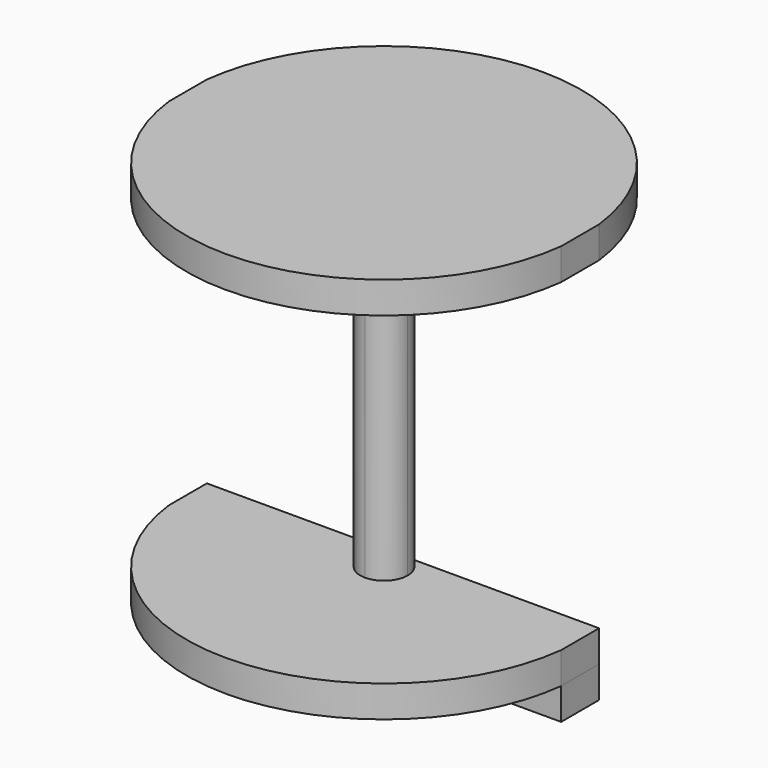
from build123d import *

# Parameters (mm, degrees)
F1_DEPTH = 2
F2_START = 2
F2_DEPTH = 20.5
F3_START = 22.5
F3_DEPTH = 2
F4_DEPTH = 2


with BuildPart() as f1:
    # F0 (on Top) → F1 (new body)
    with BuildSketch(Plane.XY):
        with BuildLine():
            Line((12.409673646, 0), (1.5, 0))
            ThreePointArc((1.5, 0), (1.0606601732, -1.0606601704), (3.9e-09, -1.5))
            Line((3.9e-09, -1.5), (12.409673646, -1.5))
            Line((12.409673646, -1.5), (12.409673646, 0))
        make_face()
        with BuildLine():
            ThreePointArc((3.9e-09, -1.5), (1.0606601732, -1.0606601704), (1.5, 0))
            Line((1.5, 0), (-1.5, 0))
            ThreePointArc((-1.5, 0), (-1.0606601704, -1.0606601732), (3.9e-09, -1.5))
        make_face()
        with BuildLine():
            Line((-12.409673646, -1.5), (3.9e-09, -1.5))
            ThreePointArc((3.9e-09, -1.5), (-1.0606601704, -1.0606601732), (-1.5, 0))
            Line((-1.5, 0), (-12.409673646, 0))
            Line((-12.409673646, 0), (-12.409673646, -1.5))
        make_face()
        with BuildLine():
            Line((12.409673646, -1.5), (3.9e-09, -1.5))
            Line((3.9e-09, -1.5), (-12.409673646, -1.5))
            ThreePointArc((-12.409673646, -1.5), (0, -12.5), (12.409673646, -1.5))
        make_face()
        with BuildLine():
            ThreePointArc((-1.5, 0), (-1.0606601718, 1.0606601718), (0, 1.5))
            Line((0, 1.5), (-12.409673646, 1.5))
            Line((-12.409673646, 1.5), (-12.409673646, 0))
            Line((-12.409673646, 0), (-1.5, 0))
        make_face()
        with BuildLine():
            ThreePointArc((0, 1.5), (1.0606601718, 1.0606601718), (1.5, 0))
            Line((1.5, 0), (12.409673646, 0))
            Line((12.409673646, 0), (12.409673646, 1.5))
            Line((12.409673646, 1.5), (0, 1.5))
        make_face()
        with BuildLine():
            Line((-1.5, 0), (1.5, 0))
            ThreePointArc((1.5, 0), (1.0606601718, 1.0606601718), (0, 1.5))
            ThreePointArc((0, 1.5), (-1.0606601718, 1.0606601718), (-1.5, 0))
        make_face()
    extrude(amount=F1_DEPTH)


with BuildPart() as f2:
    # F0 (on Top) → F2 (new body)
    with BuildSketch(Plane.XY.offset(F2_START)):
        with BuildLine():
            ThreePointArc((3.9e-09, -1.5), (1.0606601732, -1.0606601704), (1.5, 0))
            Line((1.5, 0), (-1.5, 0))
            ThreePointArc((-1.5, 0), (-1.0606601704, -1.0606601732), (3.9e-09, -1.5))
        make_face()
        with BuildLine():
            Line((-1.5, 0), (1.5, 0))
            ThreePointArc((1.5, 0), (1.0606601718, 1.0606601718), (0, 1.5))
            ThreePointArc((0, 1.5), (-1.0606601718, 1.0606601718), (-1.5, 0))
        make_face()
    extrude(amount=F2_DEPTH)


with BuildPart() as f3:
    # F0 (on Top) → F3 (new body)
    with BuildSketch(Plane.XY.offset(F3_START)):
        with BuildLine():
            ThreePointArc((0, 1.5), (1.0606601718, 1.0606601718), (1.5, 0))
            Line((1.5, 0), (12.409673646, 0))
            Line((12.409673646, 0), (12.409673646, 1.5))
            Line((12.409673646, 1.5), (0, 1.5))
        make_face()
        with BuildLine():
            Line((-1.5, 0), (1.5, 0))
            ThreePointArc((1.5, 0), (1.0606601718, 1.0606601718), (0, 1.5))
            ThreePointArc((0, 1.5), (-1.0606601718, 1.0606601718), (-1.5, 0))
        make_face()
        with BuildLine():
            ThreePointArc((3.9e-09, -1.5), (1.0606601732, -1.0606601704), (1.5, 0))
            Line((1.5, 0), (-1.5, 0))
            ThreePointArc((-1.5, 0), (-1.0606601704, -1.0606601732), (3.9e-09, -1.5))
        make_face()
        with BuildLine():
            Line((12.409673646, 0), (1.5, 0))
            ThreePointArc((1.5, 0), (1.0606601732, -1.0606601704), (3.9e-09, -1.5))
            Line((3.9e-09, -1.5), (12.409673646, -1.5))
            Line((12.409673646, -1.5), (12.409673646, 0))
        make_face()
        with BuildLine():
            Line((-12.409673646, -1.5), (3.9e-09, -1.5))
            ThreePointArc((3.9e-09, -1.5), (-1.0606601704, -1.0606601732), (-1.5, 0))
            Line((-1.5, 0), (-12.409673646, 0))
            Line((-12.409673646, 0), (-12.409673646, -1.5))
        make_face()
        with BuildLine():
            ThreePointArc((-1.5, 0), (-1.0606601718, 1.0606601718), (0, 1.5))
            Line((0, 1.5), (-12.409673646, 1.5))
            Line((-12.409673646, 1.5), (-12.409673646, 0))
            Line((-12.409673646, 0), (-1.5, 0))
        make_face()
        with BuildLine():
            Line((-12.409673646, 1.5), (0, 1.5))
            Line((0, 1.5), (12.409673646, 1.5))
            ThreePointArc((12.409673646, 1.5), (0, 12.5), (-12.409673646, 1.5))
        make_face()
        with BuildLine():
            Line((12.409673646, -1.5), (3.9e-09, -1.5))
            Line((3.9e-09, -1.5), (-12.409673646, -1.5))
            ThreePointArc((-12.409673646, -1.5), (0, -12.5), (12.409673646, -1.5))
        make_face()
    extrude(amount=F3_DEPTH)


with BuildPart() as f4:
    # F0 (on Top) → F4 (new body)
    with BuildSketch(Plane.XY):
        with BuildLine():
            ThreePointArc((-1.5, 0), (-1.0606601718, 1.0606601718), (0, 1.5))
            Line((0, 1.5), (-12.409673646, 1.5))
            Line((-12.409673646, 1.5), (-12.409673646, 0))
            Line((-12.409673646, 0), (-1.5, 0))
        make_face()
        with BuildLine():
            ThreePointArc((0, 1.5), (1.0606601718, 1.0606601718), (1.5, 0))
            Line((1.5, 0), (12.409673646, 0))
            Line((12.409673646, 0), (12.409673646, 1.5))
            Line((12.409673646, 1.5), (0, 1.5))
        make_face()
        with BuildLine():
            Line((12.409673646, 0), (1.5, 0))
            ThreePointArc((1.5, 0), (1.0606601732, -1.0606601704), (3.9e-09, -1.5))
            Line((3.9e-09, -1.5), (12.409673646, -1.5))
            Line((12.409673646, -1.5), (12.409673646, 0))
        make_face()
        with BuildLine():
            Line((-1.5, 0), (1.5, 0))
            ThreePointArc((1.5, 0), (1.0606601718, 1.0606601718), (0, 1.5))
            ThreePointArc((0, 1.5), (-1.0606601718, 1.0606601718), (-1.5, 0))
        make_face()
        with BuildLine():
            ThreePointArc((3.9e-09, -1.5), (1.0606601732, -1.0606601704), (1.5, 0))
            Line((1.5, 0), (-1.5, 0))
            ThreePointArc((-1.5, 0), (-1.0606601704, -1.0606601732), (3.9e-09, -1.5))
        make_face()
        with BuildLine():
            Line((-12.409673646, -1.5), (3.9e-09, -1.5))
            ThreePointArc((3.9e-09, -1.5), (-1.0606601704, -1.0606601732), (-1.5, 0))
            Line((-1.5, 0), (-12.409673646, 0))
            Line((-12.409673646, 0), (-12.409673646, -1.5))
        make_face()
    extrude(amount=-F4_DEPTH)


solid = Compound([f1.part, f2.part, f3.part, f4.part])
